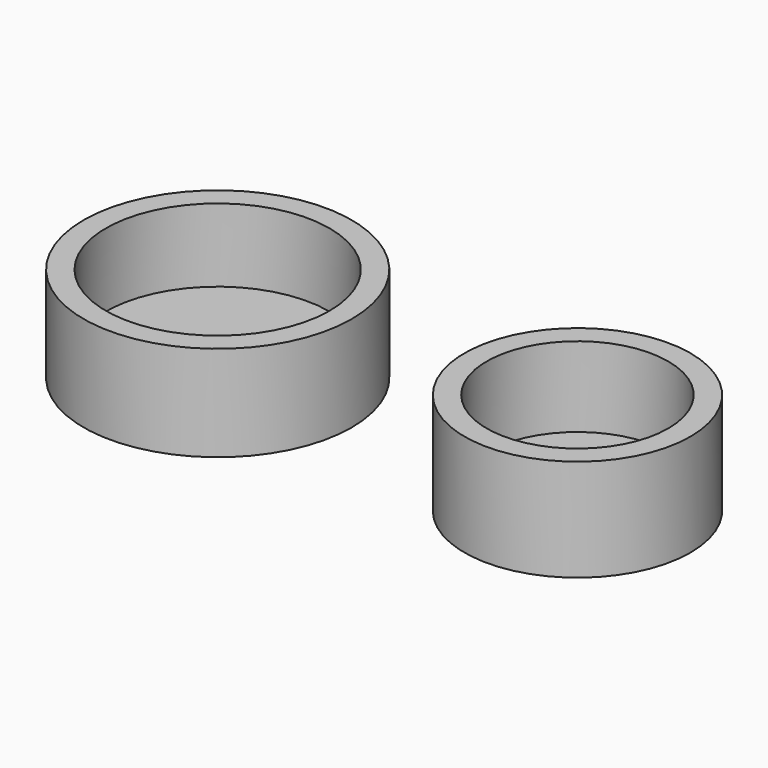
from build123d import *

# Parameters (mm, degrees)
F0_R     = 12.9264196596
F1_DEPTH = 7.112
F2_T     = -2.54
F3_DEPTH = 4.572
F4_R     = 15.334226066
F5_DEPTH = 10.922
F6_T     = -2.54


with BuildPart() as f1:
    # F0 (on Top) → F1 (new body)
    with BuildSketch(Plane.XY):
        Circle(F0_R)
    extrude(amount=F1_DEPTH)

    # F2
    f2_openings = [f1.faces().sort_by_distance(p)[0] for p in [
        (0, 0, 7.112),
    ]]
    offset(amount=F2_T, openings=f2_openings)

    # F3 (add): a face of the model
    f3_faces = [f1.faces().sort_by_distance(p)[0] for p in [
        (-12.5608052997, 0, 7.112),
    ]]
    extrude(f3_faces, amount=F3_DEPTH)


with BuildPart() as f5:
    # F4 (on Top) → F5 (new body)
    with BuildSketch(Plane.XY):
        with Locations((-41.1589220166, 0)):
            Circle(F4_R)
    extrude(amount=F5_DEPTH)

    # F6
    f6_openings = [f5.faces().sort_by_distance(p)[0] for p in [
        (-41.158922, 0, 10.922),
    ]]
    offset(amount=F6_T, openings=f6_openings)


solid = Compound([f1.part, f5.part])
